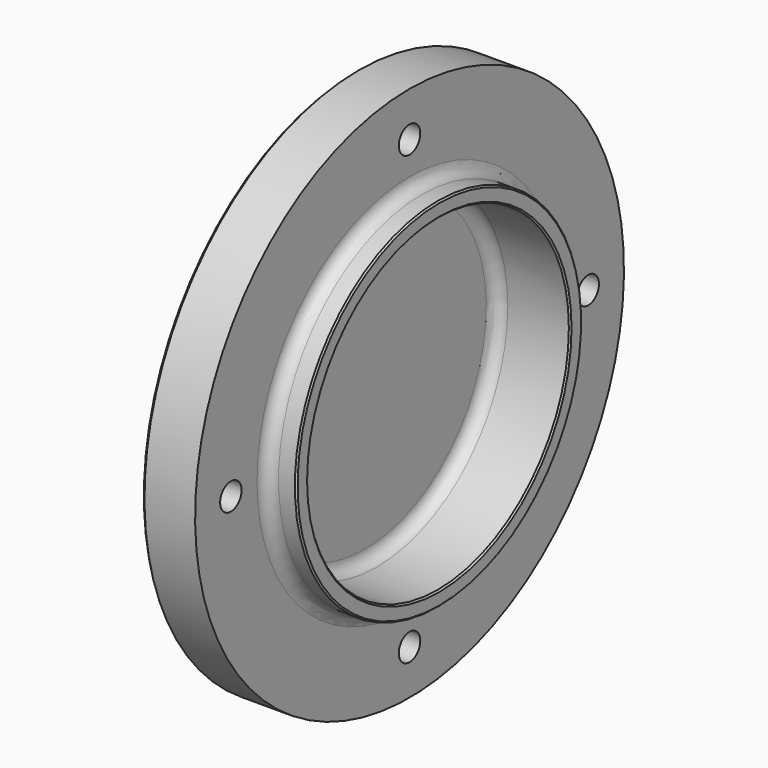
from build123d import *

# Parameters (mm, degrees)
F3_D           = 9
F3_DEPTH       = 18
F3_CBORE_D     = 15
F3_CBORE_DEPTH = 9
F4_R           = 4
F5_SIZE        = 0.5
F6_R           = 4
F7_SIZE        = 1


with BuildPart() as f1:
    # F0 (on Front) → F1 (revolve)
    with BuildSketch(Plane.XZ):
        Polygon((18, 90), (0, 90), (0, 0), (3, 0), (3, 55), (28, 55), (28, 60), (18, 60), align=None)
    revolve(axis=Axis((1.5, 0, 0), (1, 0, 0)))

    # F3
    with Locations(Plane(origin=(0, 0, 0), x_dir=(0, -1, 0), z_dir=(-1, 0, 0))):
        with Locations((0, 75), (75, 0), (0, -75), (-75, 0)):
            CounterBoreHole(F3_D / 2, F3_CBORE_D / 2, F3_CBORE_DEPTH, depth=F3_DEPTH)

    # F4
    f4_edges = [f1.edges().sort_by_distance(p)[0] for p in [
        (18, 0, -60),
    ]]
    fillet(f4_edges, radius=F4_R)

    # F5
    f5_edges = [f1.edges().sort_by_distance(p)[0] for p in [
        (28, 0, -60),
        (28, 0, -55),
    ]]
    chamfer(f5_edges, length=F5_SIZE)

    # F6
    f6_edges = [f1.edges().sort_by_distance(p)[0] for p in [
        (3, 0, -55),
    ]]
    fillet(f6_edges, radius=F6_R)

    # F7
    f7_edges = [f1.edges().sort_by_distance(p)[0] for p in [
        (0, 0, -90),
    ]]
    chamfer(f7_edges, length=F7_SIZE)


solid = f1.part
